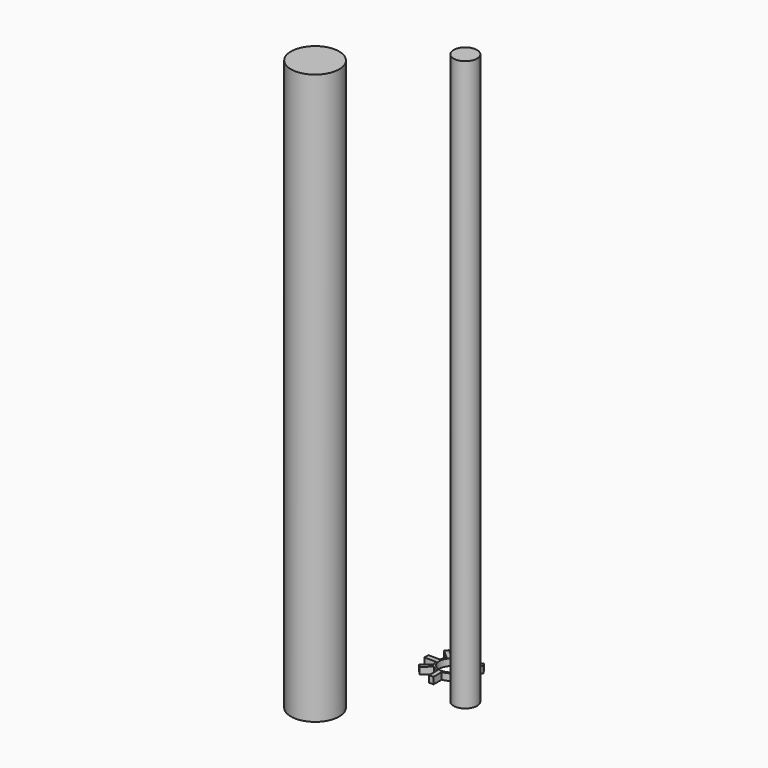
from build123d import *

# Parameters (mm, degrees)
F0_R     = 1.8288
F1_DEPTH = 43.18
F0_R_2   = 0.889
F2_DEPTH = 43.18
F3_DEPTH = 0.508


with BuildPart() as f1:
    # F0 (on Top) → F1 (new body)
    with BuildSketch(Plane.XY):
        Circle(F0_R)
    extrude(amount=F1_DEPTH)


with BuildPart() as f2:
    # F0 (on Top) → F2 (new body)
    with BuildSketch(Plane.XY):
        with Locations((6.454015, 6.159626)):
            Circle(F0_R_2)
    extrude(amount=F2_DEPTH)


with BuildPart() as f3:
    # F0 (on Top) → F3 (new body)
    with BuildSketch(Plane.XY):
        with BuildLine():
            ThreePointArc((4.510042, 8.304527), (4.522503, 8.395676), (4.526668, 8.487578))
            ThreePointArc((4.526668, 8.487578), (4.516479, 8.631108), (4.486115, 8.771759))
            ThreePointArc((4.486115, 8.771759), (4.408371, 8.963377), (4.293439, 9.135285))
            ThreePointArc((4.293439, 9.135285), (4.193136, 9.240235), (4.078899, 9.329819))
            ThreePointArc((4.078899, 9.329819), (3.857038, 9.442713), (3.614385, 9.49827))
            ThreePointArc((3.614385, 9.49827), (3.4472, 9.501593), (3.281734, 9.477449))
            ThreePointArc((3.281734, 9.477449), (3.085133, 9.410169), (2.906331, 9.304298))
            ThreePointArc((2.906331, 9.304298), (2.793215, 9.206965), (2.695578, 9.094112))
            ThreePointArc((2.695578, 9.094112), (2.580118, 8.895416), (2.512265, 8.675854))
            ThreePointArc((2.512265, 8.675854), (2.494672, 8.490235), (2.511294, 8.304527))
            ThreePointArc((2.511294, 8.304527), (2.558561, 8.132968), (2.635035, 7.972288))
            ThreePointArc((2.635035, 7.972288), (2.721459, 7.84773), (2.825455, 7.737418))
            ThreePointArc((2.825455, 7.737418), (3.035282, 7.589655), (3.27544, 7.499183))
            ThreePointArc((3.27544, 7.499183), (3.443974, 7.473769), (3.614385, 7.476885))
            ThreePointArc((3.614385, 7.476885), (3.965358, 7.579), (4.257478, 7.798716))
            ThreePointArc((4.257478, 7.798716), (4.347686, 7.911682), (4.420949, 8.036307))
            ThreePointArc((4.420949, 8.036307), (4.474868, 8.167304), (4.510042, 8.304527))
        make_face()
        with Locations((3.510668, 8.487578)):
            Circle(F0_R_2, mode=Mode.SUBTRACT)
        with BuildLine():
            ThreePointArc((3.281734, 9.477449), (3.4472, 9.501593), (3.614385, 9.49827))
            Line((3.614385, 9.49827), (3.614385, 10.352937))
            Line((3.614385, 10.352937), (3.281734, 10.352937))
            Line((3.281734, 10.352937), (3.281734, 9.477449))
        make_face()
        with BuildLine():
            ThreePointArc((2.695578, 9.094112), (2.793215, 9.206965), (2.906331, 9.304298))
            Line((2.906331, 9.304298), (2.194438, 9.936489))
            Line((2.194438, 9.936489), (1.997158, 9.714338))
            Line((1.997158, 9.714338), (2.695578, 9.094112))
        make_face()
        with BuildLine():
            ThreePointArc((4.078899, 9.329819), (4.193136, 9.240235), (4.293439, 9.135285))
            Line((4.293439, 9.135285), (5.042599, 9.645747))
            Line((5.042599, 9.645747), (4.884052, 9.878433))
            Line((4.884052, 9.878433), (4.078899, 9.329819))
        make_face()
        with BuildLine():
            ThreePointArc((4.486115, 8.771759), (4.516479, 8.631108), (4.526668, 8.487578))
            ThreePointArc((4.526668, 8.487578), (4.522503, 8.395676), (4.510042, 8.304527))
            Line((4.510042, 8.304527), (5.304877, 8.304527))
            Line((5.304877, 8.304527), (5.304877, 8.771759))
            Line((5.304877, 8.771759), (4.486115, 8.771759))
        make_face()
        with BuildLine():
            Line((5.093221, 7.45324), (4.420949, 8.036307))
            ThreePointArc((4.420949, 8.036307), (4.347686, 7.911682), (4.257478, 7.798716))
            Line((4.257478, 7.798716), (4.905443, 7.236732))
            Line((4.905443, 7.236732), (5.093221, 7.45324))
        make_face()
        with BuildLine():
            Line((3.614385, 6.706009), (3.614385, 7.476885))
            ThreePointArc((3.614385, 7.476885), (3.443974, 7.473769), (3.27544, 7.499183))
            Line((3.27544, 7.499183), (3.27544, 6.706009))
            Line((3.27544, 6.706009), (3.614385, 6.706009))
        make_face()
        with BuildLine():
            ThreePointArc((2.511294, 8.304527), (2.494672, 8.490235), (2.512265, 8.675854))
            Line((2.512265, 8.675854), (1.639693, 8.675854))
            Line((1.639693, 8.675854), (1.639693, 8.304527))
            Line((1.639693, 8.304527), (2.511294, 8.304527))
        make_face()
        with BuildLine():
            Line((2.164812, 7.174852), (2.825455, 7.737418))
            ThreePointArc((2.825455, 7.737418), (2.721459, 7.84773), (2.635035, 7.972288))
            Line((2.635035, 7.972288), (1.968838, 7.404992))
            Line((1.968838, 7.404992), (2.164812, 7.174852))
        make_face()
    extrude(amount=F3_DEPTH)


solid = Compound([f1.part, f2.part, f3.part])
